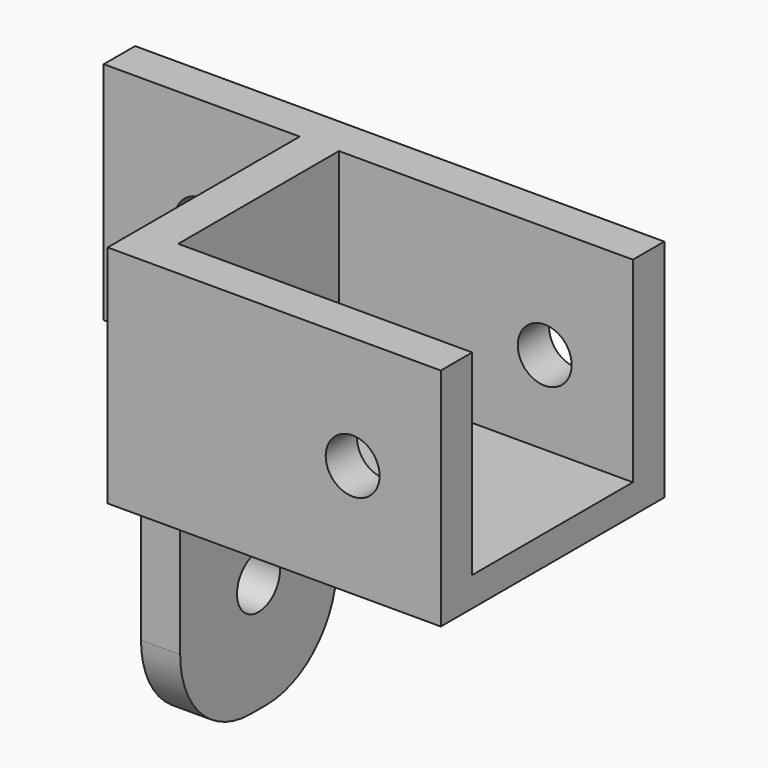
from build123d import *

# Parameters (mm, degrees)
PAD077_DEPTH            = 11.5
SKETCH069_W             = 10.25
SKETCH069_H             = 30
PAD078_DEPTH            = 3
SKETCH070_R             = 2.75
POCKET048_DEPTH         = 5
SKETCH148_W             = 4
SKETCH148_H             = 20
POCKET049_DEPTH         = 11.501
POCKET049_DEPTH_BACK    = 11.501
SKETCH149_W             = 20
SKETCH149_H             = 4
PAD079_DEPTH            = 23
SKETCH150_R             = 2.75
POCKET050_DEPTH         = 34.001
FILLET003_R             = 9
BODY057_PLACEMENT_ANGLE = 90


with BuildPart() as part:
    # Sketch068 → Pad077 (new body, symmetric)
    with BuildSketch(Plane.XY):
        Polygon((0, 0), (10.25, 0), (10.25, 20), (14.25, 20), (14.25, -34), (10.25, -34), (10.25, -4), (0, -4), align=None)
    pad077 = extrude(amount=PAD077_DEPTH, both=True)

    # Sketch069 (on Face9 of Pad043) → Pad078 (join)
    with BuildSketch(Plane(origin=(0, 0, -11.5), x_dir=(1, 0, 0), z_dir=(0, 0, -1))):
        with Locations((5.125, 19)):
            Rectangle(SKETCH069_W, SKETCH069_H)
    pad078 = extrude(amount=-PAD078_DEPTH)

    # Sketch070 (on Face9 of Pad044) → Pocket048 (cut)
    with BuildSketch(Plane.YZ.offset(14.25)):
        with Locations((-25, 0)):
            Circle(SKETCH070_R)
        with Locations((10, 0)):
            Circle(SKETCH070_R)
    pocket048 = extrude(amount=-POCKET048_DEPTH, mode=Mode.SUBTRACT)

    # Mirrored028: Pad077, Pad078, Pocket048 across Sketch068 V_Axis
    add(pad077.mirror(Plane(origin=(0, 0, 0), x_dir=(0, 0, 1), z_dir=(1, 0, 0))))
    add(pad078.mirror(Plane(origin=(0, 0, 0), x_dir=(0, 0, 1), z_dir=(1, 0, 0))))
    add(pocket048.mirror(Plane(origin=(0, 0, 0), x_dir=(0, 0, 1), z_dir=(1, 0, 0))), mode=Mode.SUBTRACT)

    # Sketch148 → Pocket049 (cut, two sides)
    with BuildSketch(Plane.XY) as pocket049_sk:
        with Locations((-12.25, 10)):
            Rectangle(SKETCH148_W, SKETCH148_H)
    extrude(amount=-POCKET049_DEPTH, mode=Mode.SUBTRACT)
    extrude(pocket049_sk.sketch, amount=POCKET049_DEPTH_BACK, mode=Mode.SUBTRACT)

    # Sketch149 → Pad079 (join)
    with BuildSketch(Plane.XY.offset(-11.5)):
        with Locations((0, -2)):
            Rectangle(SKETCH149_W, SKETCH149_H)
    extrude(amount=-PAD079_DEPTH)

    # Sketch150 → Pocket050 (cut, through all)
    with BuildSketch(Plane(origin=(0, 0, -23), x_dir=(1, 0, 0), z_dir=(0, -1, 0))):
        Circle(SKETCH150_R)
    extrude(amount=POCKET050_DEPTH, mode=Mode.SUBTRACT)

    # Fillet003
    fillet003_edges = [part.edges().sort_by_distance(p)[0] for p in [
        (10, -2, -34.5),
        (-10, -2, -34.5),
    ]]
    fillet(fillet003_edges, radius=FILLET003_R)


with BuildPart() as part_1:
    # Body057 placement: moved
    add(part.part.moved(Location((-138.5, 0, 0))).rotate(Axis((-138.5, 0, 0), (0, 0, 1)), BODY057_PLACEMENT_ANGLE))


solid = part_1.part
